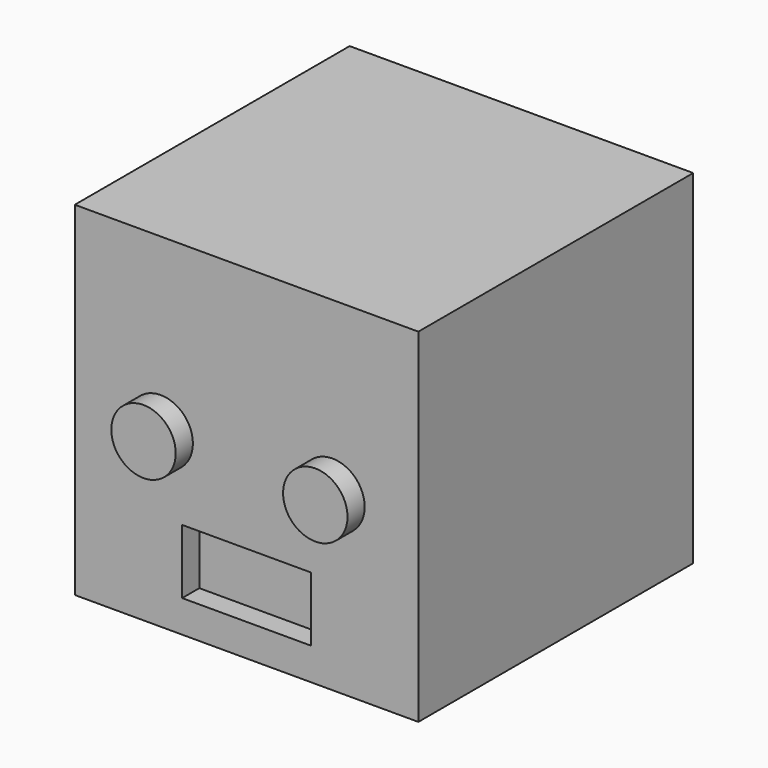
from build123d import *

# Parameters (mm, degrees)
F0_W     = 80
F0_H     = 80
F1_DEPTH = 80
F2_R     = 7.5
F3_DEPTH = 5
F4_W     = 30
F4_H     = 15
F5_DEPTH = 5


with BuildPart() as f1:
    # F0 (on Top) → F1 (new body)
    with BuildSketch(Plane.XY):
        Rectangle(F0_W, F0_H)
    extrude(amount=F1_DEPTH)

    # F2 (on face) → F3 (join)
    with BuildSketch(Plane.XZ.offset(40)):
        with Locations((-20, 40)):
            Circle(F2_R)
        with Locations((20, 40)):
            Circle(F2_R)
    extrude(amount=F3_DEPTH)

    # F4 (on face) → F5 (cut)
    with BuildSketch(Plane.XZ.offset(40)):
        with Locations((0, 15)):
            Rectangle(F4_W, F4_H)
    extrude(amount=-F5_DEPTH, mode=Mode.SUBTRACT)


solid = f1.part
